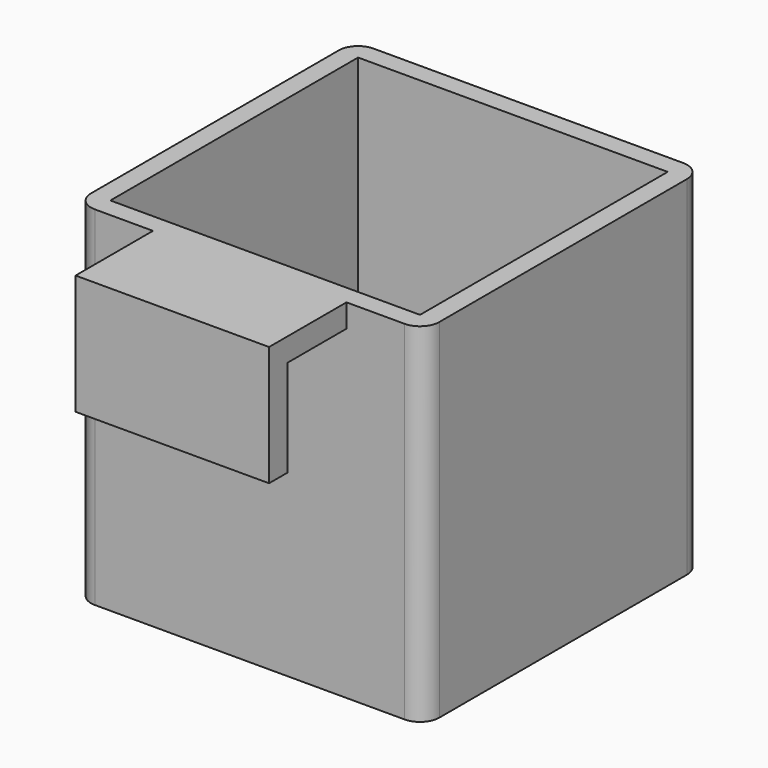
from build123d import *

# Parameters (mm, degrees)
F0_W     = 90
F0_H     = 90
F0_R     = 5
F1_DEPTH = 90
F2_R     = 5
F3_W     = 80
F3_H     = 80
F4_DEPTH = 85
F5_W     = 50
F5_H     = 6
F6_DEPTH = 25
F7_W     = 50
F7_H     = 6
F8_DEPTH = 25


with BuildPart() as f1:
    # F0 (on Top) → F1 (new body)
    with BuildSketch(Plane.XY):
        with Locations((45, 45)):
            Rectangle(F0_W, F0_H)
        with Locations((16.019238, 31.732051)):
            Circle(F0_R, mode=Mode.SUBTRACT)
        with Locations((67.980762, 28.267949)):
            Circle(F0_R, mode=Mode.SUBTRACT)
        with Locations((45, 75)):
            Circle(F0_R, mode=Mode.SUBTRACT)
    extrude(amount=F1_DEPTH)

    # F2
    f2_edges = [f1.edges().sort_by_distance(p)[0] for p in [
        (90, 0, 45),
        (90, 90, 45),
        (0, 0, 45),
        (0, 90, 45),
    ]]
    fillet(f2_edges, radius=F2_R)

    # F3 (on face) → F4 (cut)
    with BuildSketch(Plane.XY.offset(90)):
        with Locations((45, 45)):
            Rectangle(F3_W, F3_H)
    extrude(amount=-F4_DEPTH, mode=Mode.SUBTRACT)

    # F5 (on face) → F6 (join)
    with BuildSketch(Plane.XZ):
        with Locations((45, 87)):
            Rectangle(F5_W, F5_H)
    extrude(amount=F6_DEPTH)

    # F7 (on face) → F8 (join)
    with BuildSketch(Plane(origin=(0, 0, 84), x_dir=(1, 0, 0), z_dir=(0, 0, -1))):
        with Locations((45, 22)):
            Rectangle(F7_W, F7_H)
    extrude(amount=F8_DEPTH)


solid = f1.part
